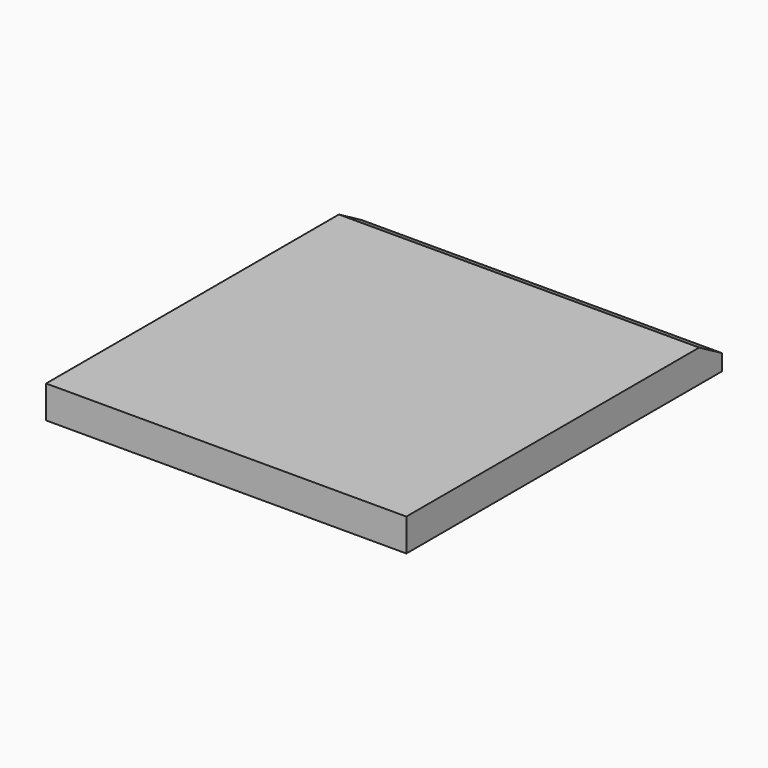
from build123d import *

# Parameters (mm, degrees)
F0_W     = 22.86
F0_H     = 2.54
F1_DEPTH = 24.638
F2_SIZE2 = 1.0265287786
F2_SIZE  = 1.778
F3_DEPTH = 0.508
F4_DEPTH = 0.1778
F5_DEPTH = 0.1778


with BuildPart() as f1:
    # F0 (on Front) → F1 (new body)
    with BuildSketch(Plane.XZ):
        Rectangle(F0_W, F0_H)
    extrude(amount=F1_DEPTH)

    # F2
    f2_edges = [f1.edges().sort_by_distance(p)[0] for p in [
        (0, 0, 1.27),
    ]]
    f2_side = f1.faces().sort_by_distance((0, -12.319, 1.27))[0]
    chamfer(f2_edges, length=F2_SIZE, length2=F2_SIZE2, reference=f2_side)

    # F3 (cut): faces of the model
    f3_faces = [f1.faces().sort_by_distance(p)[0] for p in [
        (0, -13.208, 1.27),
        (0, -0.889, 0.7567356107),
    ]]
    extrude(f3_faces, amount=-F3_DEPTH, dir=(0, 0, 1), mode=Mode.SUBTRACT)

    # F4 (cut): a face of the model
    f4_faces = [f1.faces().sort_by_distance(p)[0] for p in [
        (-11.43, -12.5367185417, -0.2665106389),
    ]]
    extrude(f4_faces, amount=-F4_DEPTH, mode=Mode.SUBTRACT)

    # F5 (cut): a face of the model
    f5_faces = [f1.faces().sort_by_distance(p)[0] for p in [
        (11.43, -12.5367185417, -0.2665106389),
    ]]
    extrude(f5_faces, amount=-F5_DEPTH, mode=Mode.SUBTRACT)


solid = f1.part
